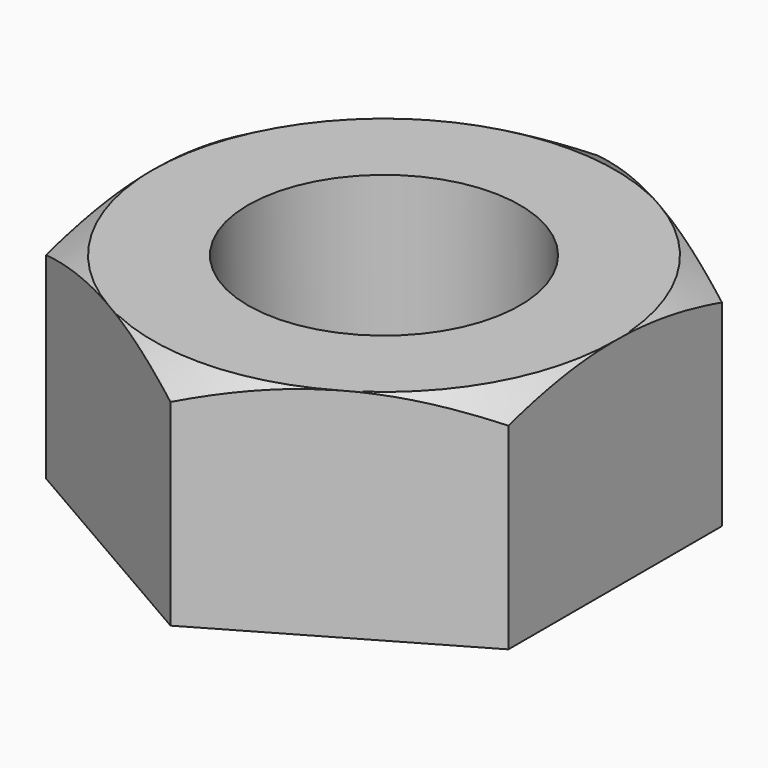
from build123d import *

# Parameters (mm, degrees)
F1_DEPTH = 8
F4_D     = 10


with BuildPart() as f1:
    # F0 (on Top) → F1 (new body)
    with BuildSketch(Plane.XY):
        Polygon((8.5, -4.907477), (8.5, 4.907477), (0, 9.814955), (-8.5, 4.907477), (-8.5, -4.907477), (0, -9.814955), align=None)
    extrude(amount=-F1_DEPTH)

    # F2 (on Right) → F3 (revolve, cut)
    with BuildSketch(Plane.YZ):
        Polygon((13.814955, 0), (8.5, 0), (13.814955, -3.06859), align=None)
    revolve(axis=Axis((0, 0, -3.475147), (0, 0, -1)), mode=Mode.SUBTRACT)

    # F4 (through all)
    with Locations(Plane.XY):
        with Locations((0, 0)):
            Hole(F4_D / 2)


solid = f1.part
